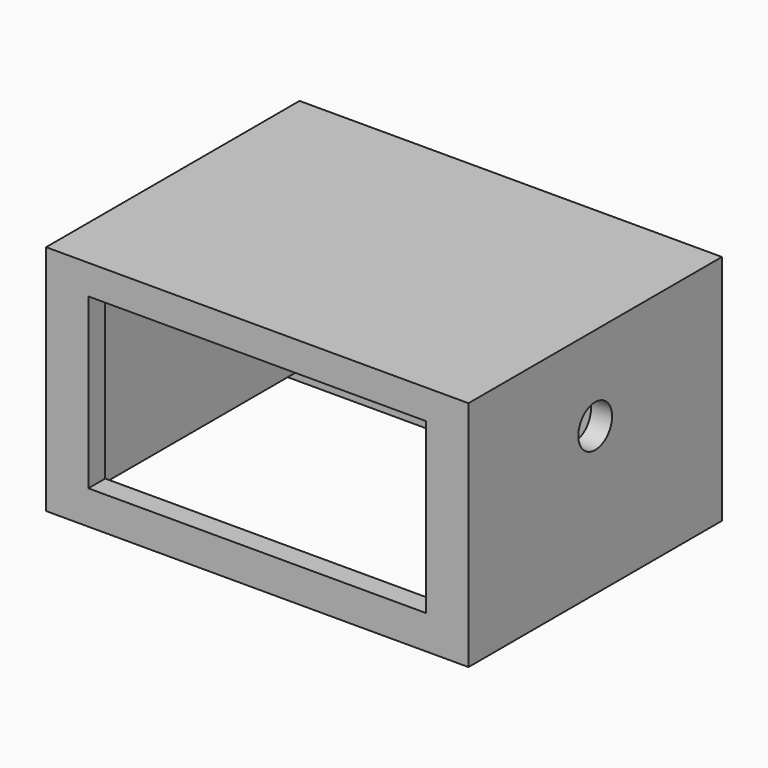
from build123d import *

# Parameters (mm, degrees)
F0_W      = 100
F0_H      = 75
F0_W_2    = 90
F0_H_2    = 65
F1_DEPTH  = 50
F2_W      = 2.1659184247
F2_H      = 70.2909231186
F3_DEPTH  = 3
F5_W      = 97.8340815753
F5_H      = 1.5
F6_DEPTH  = 3
F7_W      = 97.8340815753
F7_H      = 1.5
F8_DEPTH  = 3
F9_W      = 100
F9_H      = 75
F9_W_2    = 90
F9_H_2    = 65
F10_DEPTH = 2
F11_W     = 80
F11_H     = 40
F12_DEPTH = 25
F13_R     = 5
F14_DEPTH = 25


with BuildPart() as f1:
    # F0 (on Top) → F1 (new body)
    with BuildSketch(Plane.XY):
        with Locations((6.7471247166, 4.5040409956)):
            Rectangle(F0_W, F0_H)
        with Locations((6.7471247166, 4.5040409956)):
            Rectangle(F0_W_2, F0_H_2, mode=Mode.SUBTRACT)
    extrude(amount=F1_DEPTH)

    # F2 (on face) → F3 (join)
    with BuildSketch(Plane(origin=(0, 0, 0), x_dir=(1, 0, 0), z_dir=(0, 0, -1))):
        Polygon((56.7471247166, 32.9959590044), (-43.2528752834, 32.9959590044), (-43.2528752834, 30.8131203055), (54.5812062919, 30.8131203055), (56.7471247166, 30.8131203055), align=None)
        with Locations((55.6641655043, -4.3323412538)):
            Rectangle(F2_W, F2_H)
        Polygon((54.5812062919, -39.4778028131), (-43.2528752834, -39.4778028131), (-43.2528752834, -42.0040409956), (56.7471247166, -42.0040409956), (56.7471247166, -39.4778028131), align=None)
    extrude(amount=F3_DEPTH)

    # F5 (on face) → F6 (join)
    with BuildSketch(Plane(origin=(0, -30.8131203055, 0), x_dir=(-1, 0, 0), z_dir=(0, 1, 0))):
        with Locations((-5.6641655043, -2.25)):
            Rectangle(F5_W, F5_H)
    extrude(amount=F6_DEPTH)

    # F7 (on face) → F8 (join)
    with BuildSketch(Plane.XZ.offset(-39.4778028131)):
        with Locations((5.6641655043, -2.0621294)):
            Rectangle(F7_W, F7_H)
    extrude(amount=F8_DEPTH)

    # F9 (on face) → F10 (join)
    with BuildSketch(Plane.XY.offset(50)):
        with Locations((6.7471247166, 4.5040409956)):
            Rectangle(F9_W, F9_H)
        with Locations((6.7471247166, 4.5040409956)):
            Rectangle(F9_W_2, F9_H_2, mode=Mode.SUBTRACT)
        with Locations((6.7471247166, 4.5040409956)):
            Rectangle(F9_W_2, F9_H_2)
    extrude(amount=F10_DEPTH)

    # F11 (on face) → F12 (cut)
    with BuildSketch(Plane.XZ.offset(32.9959590044)):
        with Locations((6.7471247166, 25)):
            Rectangle(F11_W, F11_H)
    extrude(amount=-F12_DEPTH, mode=Mode.SUBTRACT)

    # F13 (on face) → F14 (cut)
    with BuildSketch(Plane.YZ.offset(56.7471247166)):
        with Locations((4.5040409956, 32)):
            Circle(F13_R)
    extrude(amount=-F14_DEPTH, mode=Mode.SUBTRACT)


solid = f1.part
